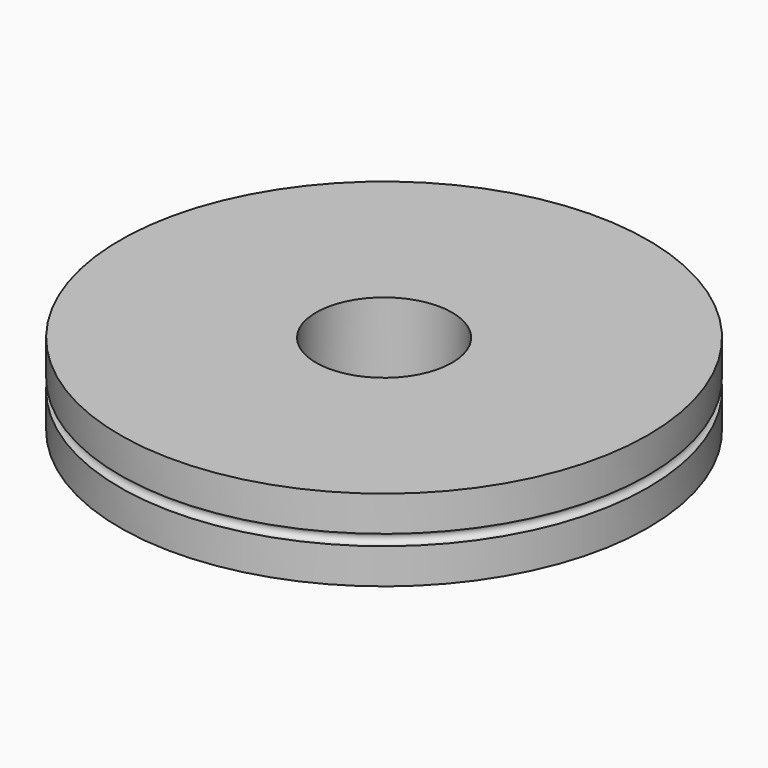
from build123d import *

# Parameters (mm, degrees)
F1_R     = 48.5
F2_DEPTH = 15
F5_R     = 12.5
F6_DEPTH = 15


with BuildPart() as f2:
    # F1 (on face) → F2 (new body)
    with BuildSketch(Plane.XY):
        Circle(F1_R)
    extrude(amount=F2_DEPTH)

    # F3 (on Front) → F4 (revolve, cut)
    with BuildSketch(Plane.XZ):
        with BuildLine():
            ThreePointArc((47.5, 7.5), (48.5, 6.5), (49.5, 7.5))
            ThreePointArc((49.5, 7.5), (48.5, 8.5), (47.5, 7.5))
        make_face()
    revolve(axis=Axis((0, 0, 8.376576), (0, 0, 1)), mode=Mode.SUBTRACT)

    # F5 (on Top) → F6 (cut)
    with BuildSketch(Plane.XY):
        Circle(F5_R)
    extrude(amount=F6_DEPTH, mode=Mode.SUBTRACT)


solid = f2.part
